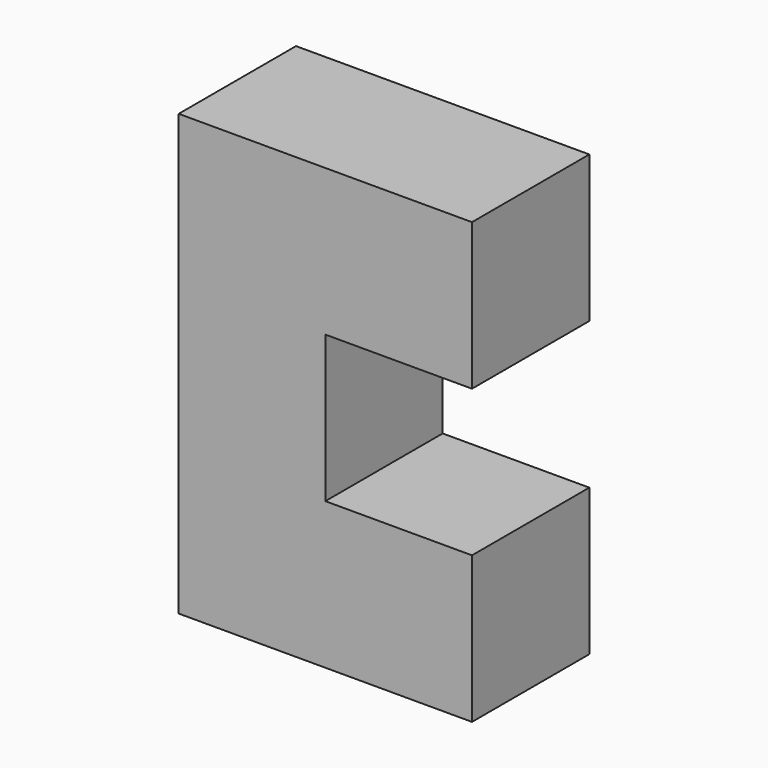
from build123d import *

# Parameters (mm, degrees)
F0_W     = 19.05
F0_H     = 19.05
F1_DEPTH = 19.05


with BuildPart() as f1:
    # F0 (on Front) → F1 (new body)
    with BuildSketch(Plane.XZ):
        Polygon((17.338478, 31.535924), (-1.711522, 31.535924), (-1.711522, -25.614076), (17.338478, -25.614076), (17.338478, -6.564076), (17.338478, 12.485924), align=None)
        with Locations((26.863478, 22.010924)):
            Rectangle(F0_W, F0_H)
        with Locations((26.863478, -16.089076)):
            Rectangle(F0_W, F0_H)
    extrude(amount=F1_DEPTH)


solid = f1.part
